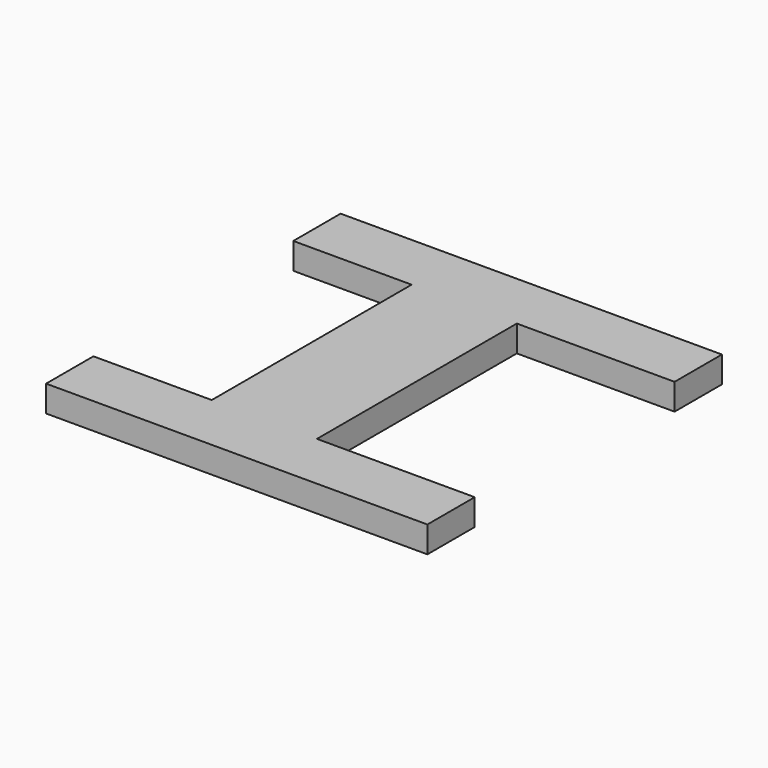
from build123d import *

# Parameters (mm, degrees)
F0_W     = 8
F0_H     = 19
F1_DEPTH = 2


with BuildPart() as f1:
    # F0 (on Top) → F1 (new body)
    with BuildSketch(Plane.XY):
        Polygon((-4.116103, -9.672118), (-13.116103, -9.672118), (-13.116103, -14.172118), (15.883897, -14.172118), (15.883897, -9.672118), (3.883897, -9.672118), align=None)
        with Locations((-0.116103, -0.172118)):
            Rectangle(F0_W, F0_H)
        Polygon((-13.116103, 9.327882), (-4.116103, 9.327882), (3.883897, 9.327882), (15.883897, 9.327882), (15.883897, 13.827882), (-13.116103, 13.827882), align=None)
    extrude(amount=F1_DEPTH)


solid = f1.part
